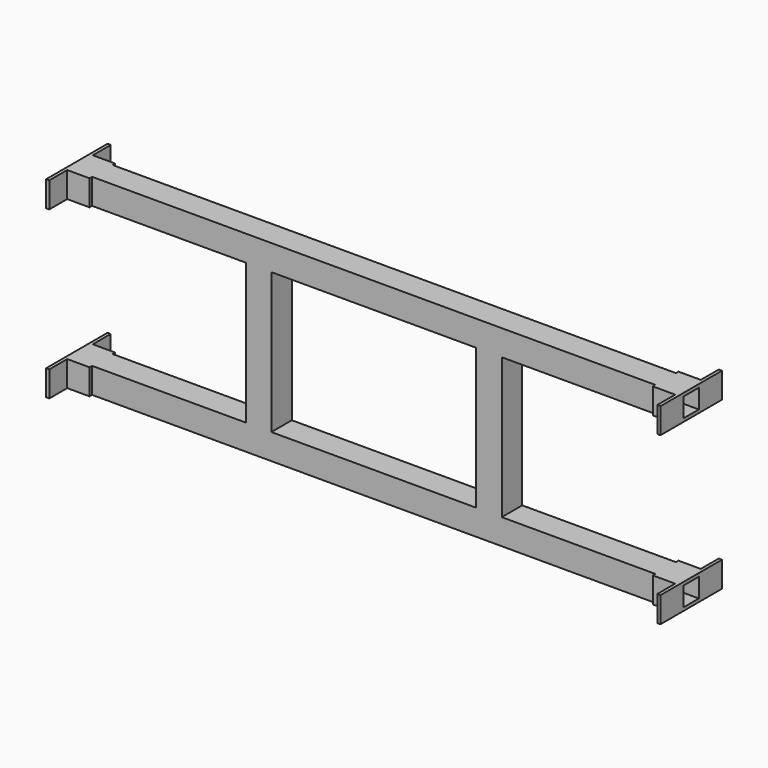
from build123d import *

# Parameters (mm, degrees)
F0_W     = 406.4
F0_H     = 279.4
F1_DEPTH = 25.4
F3_DEPTH = 50.8
F5_DEPTH = 50.8
F6_W     = 38.1
F6_H     = 38.1
F7_DEPTH = 1270


with BuildPart() as f1:
    # F0 (on Front) → F1 (new body, symmetric)
    with BuildSketch(Plane.XZ):
        Polygon((-254, 25.4), (-609.6, 25.4), (-609.6, -25.4), (609.6, -25.4), (609.6, 25.4), (254, 25.4), (254, 304.8), (609.6, 304.8), (609.6, 355.6), (-609.6, 355.6), (-609.6, 304.8), (-254, 304.8), align=None)
        with Locations((0, 165.1)):
            Rectangle(F0_W, F0_H, mode=Mode.SUBTRACT)
    extrude(amount=F1_DEPTH, both=True)

    # F2 (on face) → F3 (join)
    with BuildSketch(Plane.XY.offset(355.6)):
        Polygon((-609.6, 76.2), (-609.6, 25.4), (-603.25, 25.4), (-558.8, 25.4), (-558.8, 31.75), (-603.25, 31.75), (-603.25, 76.2), align=None)
        Polygon((-609.6, -25.4), (-609.6, -76.2), (-603.25, -76.2), (-603.25, -31.75), (-558.8, -31.75), (-558.8, -25.4), (-603.25, -25.4), align=None)
        Polygon((603.25, -25.4), (558.8, -25.4), (558.8, -31.75), (603.25, -31.75), (603.25, -76.2), (609.6, -76.2), (609.6, -25.4), align=None)
        Polygon((603.25, 25.4), (609.6, 25.4), (609.6, 76.2), (603.25, 76.2), (603.25, 31.75), (558.8, 31.75), (558.8, 25.4), align=None)
    extrude(amount=-F3_DEPTH)

    # F4 (on face) → F5 (join)
    with BuildSketch(Plane(origin=(0, 0, -25.4), x_dir=(1, 0, 0), z_dir=(0, 0, -1))):
        Polygon((-603.25, -76.2), (-603.25, -31.75), (-558.8, -31.75), (-558.8, -25.4), (-603.25, -25.4), (-609.6, -25.4), (-609.6, -76.2), align=None)
        Polygon((-558.8, 31.75), (-603.25, 31.75), (-603.25, 76.2), (-609.6, 76.2), (-609.6, 25.4), (-603.25, 25.4), (-558.8, 25.4), align=None)
        Polygon((558.8, 25.4), (603.25, 25.4), (609.6, 25.4), (609.6, 76.2), (603.25, 76.2), (603.25, 31.75), (558.8, 31.75), align=None)
        Polygon((558.8, -31.75), (603.25, -31.75), (603.25, -76.2), (609.6, -76.2), (609.6, -25.4), (603.25, -25.4), (558.8, -25.4), align=None)
    extrude(amount=-F5_DEPTH)

    # F6 (on Right) → F7 (cut, symmetric)
    with BuildSketch(Plane.YZ):
        with Locations((0, 330.2)):
            Rectangle(F6_W, F6_H)
        Rectangle(F6_W, F6_H)
    extrude(amount=F7_DEPTH, both=True, mode=Mode.SUBTRACT)


solid = f1.part
